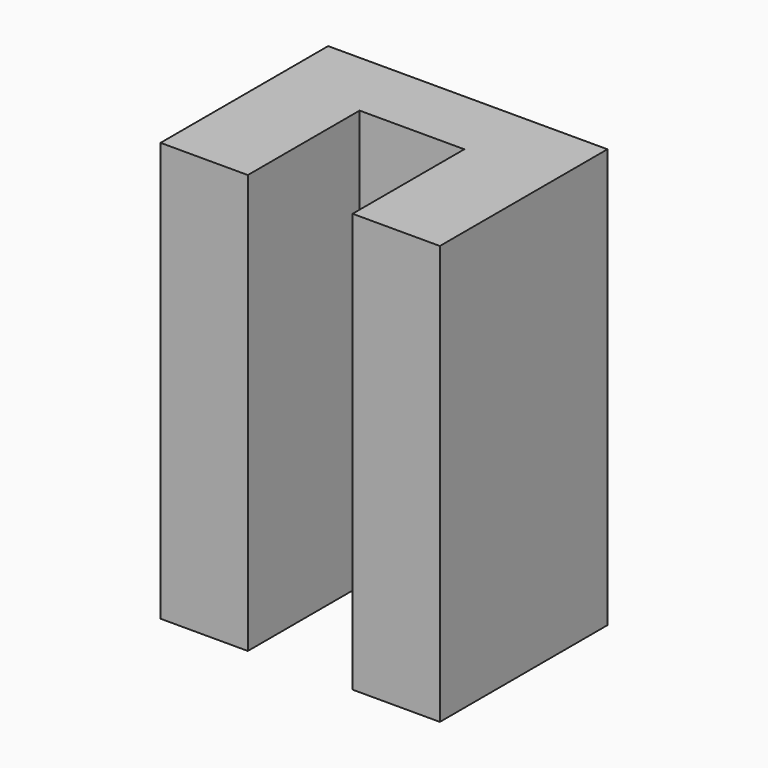
from build123d import *

# Parameters (mm, degrees)
F0_W     = 4
F0_H     = 6
F1_DEPTH = 3
F2_W     = 1.5
F2_H     = 6
F3_DEPTH = 2
F4_R     = 1.05
F5_DEPTH = 0.9


with BuildPart() as f1:
    # F0 (on Front) → F1 (new body)
    with BuildSketch(Plane.XZ):
        Rectangle(F0_W, F0_H)
    extrude(amount=F1_DEPTH)

    # F2 (on face) → F3 (cut)
    with BuildSketch(Plane.XZ.offset(3)):
        Rectangle(F2_W, F2_H)
    extrude(amount=-F3_DEPTH, mode=Mode.SUBTRACT)

    # F4 (on face) → F5 (cut)
    with BuildSketch(Plane(origin=(0, 0, 0), x_dir=(-1, 0, 0), z_dir=(0, 1, 0))):
        Circle(F4_R)
    extrude(amount=-F5_DEPTH, mode=Mode.SUBTRACT)


solid = f1.part
